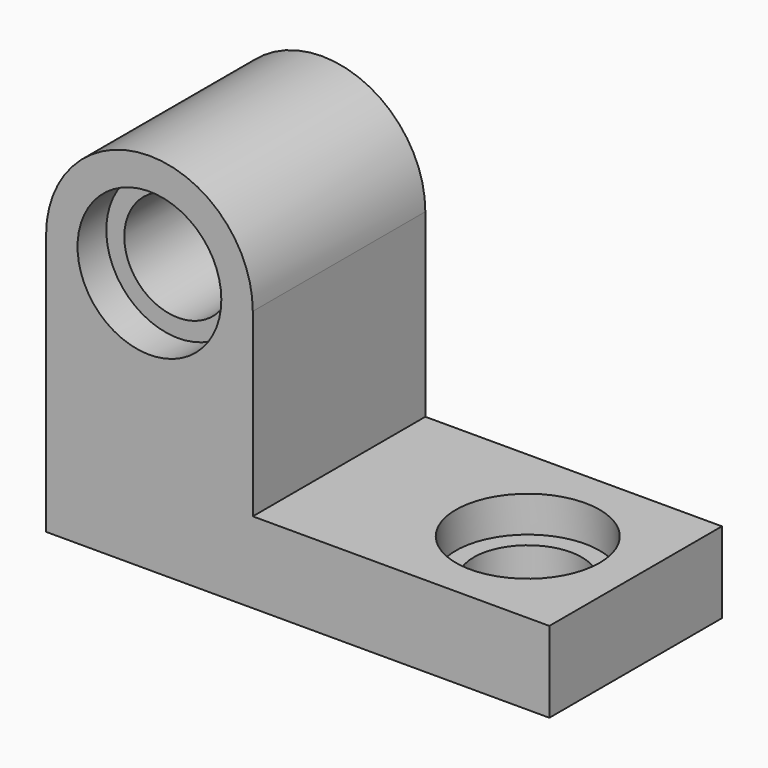
from build123d import *

# Parameters (mm, degrees)
F0_W           = 125.521261
F0_H           = 76.2
F1_DEPTH       = 28.575
F3_D           = 38.1
F3_CBORE_D     = 50.8
F3_CBORE_DEPTH = 12.7
F5_DEPTH       = 76.2
F6_D           = 38.1
F6_CBORE_D     = 50.8
F6_CBORE_DEPTH = 12.7


with BuildPart() as f1:
    # F0 (on Top) → F1 (new body)
    with BuildSketch(Plane.XY):
        with Locations((26.139369, 0)):
            Rectangle(F0_W, F0_H)
    extrude(amount=F1_DEPTH)

    # F3 (through all)
    with Locations(Plane.XY.offset(28.575)):
        with Locations((50.8, 0)):
            CounterBoreHole(F3_D / 2, F3_CBORE_D / 2, F3_CBORE_DEPTH)

    # F4 (on face) → F5 (join)
    with BuildSketch(Plane.XZ.offset(38.1)):
        Polygon((-88.9, 92.346745), (-88.9, 0), (-36.621261, 0), (-36.621261, 28.575), (-15.875, 28.575), (-15.875, 92.346745), align=None)
        with BuildLine():
            ThreePointArc((-15.875, 92.346745), (-52.3875, 128.859245), (-88.9, 92.346745))
            Line((-88.9, 92.346745), (-15.875, 92.346745))
        make_face()
    extrude(amount=-F5_DEPTH)

    # F6 (through all)
    with Locations(Plane.XZ.offset(38.1)):
        with Locations((-52.3875, 92.346745)):
            CounterBoreHole(F6_D / 2, F6_CBORE_D / 2, F6_CBORE_DEPTH)


solid = f1.part
